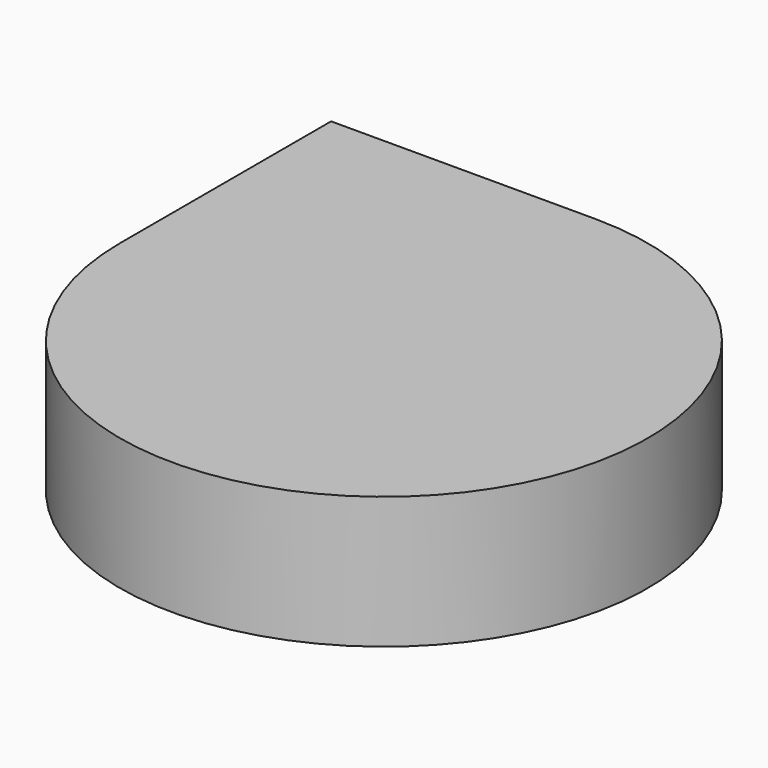
from build123d import *

# Parameters (mm, degrees)
F0_W       = 50.8
F0_H       = 50.8
F1_DEPTH   = 25.4
F1_FACE_W  = 50.8
F1_FACE_H  = 25.4
F1_FACE1_W = 50.8
F1_FACE1_H = 25.4


with BuildPart() as f1:
    # F0 (on Top) → F1 (new body)
    with BuildSketch(Plane.XY):
        with Locations((5.8327401057, 6.9377286209)):
            Rectangle(F0_W, F0_H)
    extrude(amount=F1_DEPTH)

    # F1_face (on face) + F1_face1 (on face) → F2 (revolve)
    with BuildSketch(Plane(origin=(5.8327401057, -18.4622713791, 12.7), x_dir=(1, 0, 0), z_dir=(0, -1, 0))):
        Rectangle(F1_FACE_W, F1_FACE_H)
    with BuildSketch(Plane(origin=(31.2327401057, 6.9377286209, 12.7), x_dir=(0, 1, 0), z_dir=(1, 0, 0))):
        Rectangle(F1_FACE1_W, F1_FACE1_H)
    revolve(axis=Axis((31.2327401057, -18.4622713791, 12.7), (0, 0, -1)))


solid = f1.part
